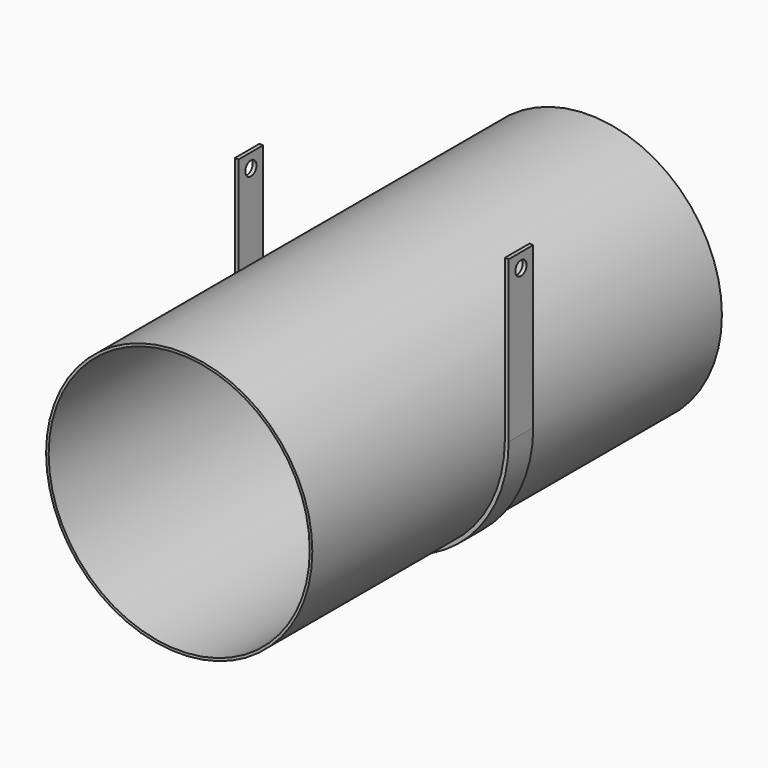
from build123d import *

# Parameters (mm, degrees)
F1_DEPTH = 38.1
F2_R     = 17.4625
F3_DEPTH = 679.451
F4_R     = 330.2
F4_R_2   = 323.85
F5_DEPTH = 635


with BuildPart() as f1:
    # F0 (on Front) → F1 (new body, symmetric)
    with BuildSketch(Plane.XZ):
        with BuildLine():
            ThreePointArc((330.2, 0), (0, -330.2), (-330.2, 0))
            Line((-330.2, 0), (-330.2, 398.4625))
            Line((-330.2, 398.4625), (-339.725, 398.4625))
            Line((-339.725, 398.4625), (-339.725, 0))
            ThreePointArc((-339.725, 0), (0, -339.725), (339.725, 0))
            Line((339.725, 0), (339.725, 398.4625))
            Line((339.725, 398.4625), (330.2, 398.4625))
            Line((330.2, 398.4625), (330.2, 0))
        make_face()
    extrude(amount=F1_DEPTH, both=True)

    # F2 (on face) → F3 (cut, through all)
    with BuildSketch(Plane(origin=(-339.725, 0, 0), x_dir=(0, -1, 0), z_dir=(-1, 0, 0))):
        with Locations((0, 363.5375)):
            Circle(F2_R)
    extrude(amount=-F3_DEPTH, mode=Mode.SUBTRACT)

    # F4 (on Front) → F5 (join, symmetric)
    with BuildSketch(Plane.XZ):
        Circle(F4_R)
        Circle(F4_R_2, mode=Mode.SUBTRACT)
    extrude(amount=F5_DEPTH, both=True)


solid = f1.part
